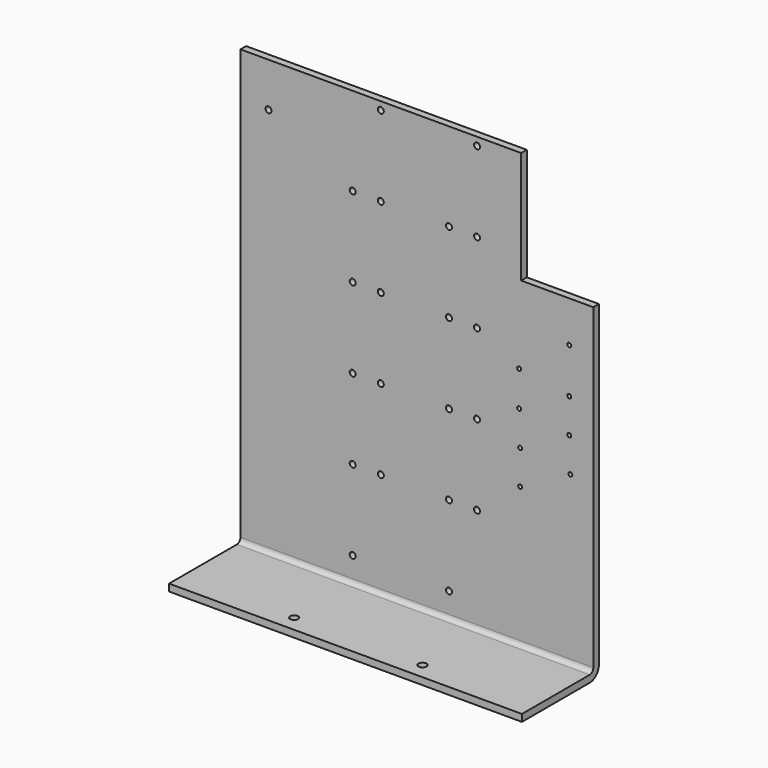
from build123d import *

# Parameters (mm, degrees)
F1_DEPTH = 279.4
F2_W     = 57.15
F2_H     = 88.9
F3_DEPTH = 5.5636
F6_D     = 4.7625
F7_D     = 3.175
F9_D     = 6.35


with BuildPart() as f1:
    # F0 (on Right) → F1 (new body)
    with BuildSketch(Plane.YZ):
        with BuildLine():
            Line((0, 5.5626), (0, 0))
            Line((0, 0), (67.0687, 0))
            ThreePointArc((67.0687, 0), (73.525504, 2.674496), (76.2, 9.1313))
            Line((76.2, 9.1313), (76.2, 349.25))
            Line((76.2, 349.25), (70.6374, 349.25))
            Line((70.6374, 349.25), (70.6374, 9.1313))
            ThreePointArc((70.6374, 9.1313), (69.592152, 6.607848), (67.0687, 5.5626))
            Line((67.0687, 5.5626), (0, 5.5626))
        make_face()
    extrude(amount=F1_DEPTH)

    # F2 (on face) → F3 (cut, through all)
    with BuildSketch(Plane.XZ.offset(-70.6374)):
        with Locations((250.825, 304.8)):
            Rectangle(F2_W, F2_H)
    extrude(amount=-F3_DEPTH, mode=Mode.SUBTRACT)

    # F6 (through all)
    with Locations(Plane(origin=(0, 76.2, 0), x_dir=(-1, 0, 0), z_dir=(0, 1, 0))):
        with Locations((-187.325, 342.9), (-187.325, 279.4), (-187.325, 215.9), (-187.325, 152.4), (-187.325, 88.9), (-165.1, 25.4), (-165.1, 88.9), (-165.1, 152.4), (-165.1, 215.9), (-165.1, 279.4), (-111.125, 342.9), (-111.125, 279.4), (-111.125, 215.9), (-111.125, 152.4), (-111.125, 88.9), (-88.9, 25.4), (-88.9, 88.9), (-88.9, 152.4), (-88.9, 215.9), (-88.9, 279.4), (-22.225, 314.325)):
            Hole(F6_D / 2)

    # F7 (through all)
    with Locations(Plane(origin=(0, 76.2, 0), x_dir=(-1, 0, 0), z_dir=(0, 1, 0))):
        with Locations((-261.183679, 137.900822), (-221.508879, 116.463222), (-221.508879, 143.489555), (-260.35, 164.927155), (-260.35, 192.092642), (-220.6752, 170.655042), (-220.6752, 198.442642), (-260.35, 227.75419)):
            Hole(F7_D / 2)

    # F9 (through all)
    with Locations(Plane(origin=(0, 0, 0), x_dir=(1, 0, 0), z_dir=(0, 0, -1))):
        with Locations((88.9, -12.7), (190.5, -12.7)):
            Hole(F9_D / 2)


solid = f1.part
